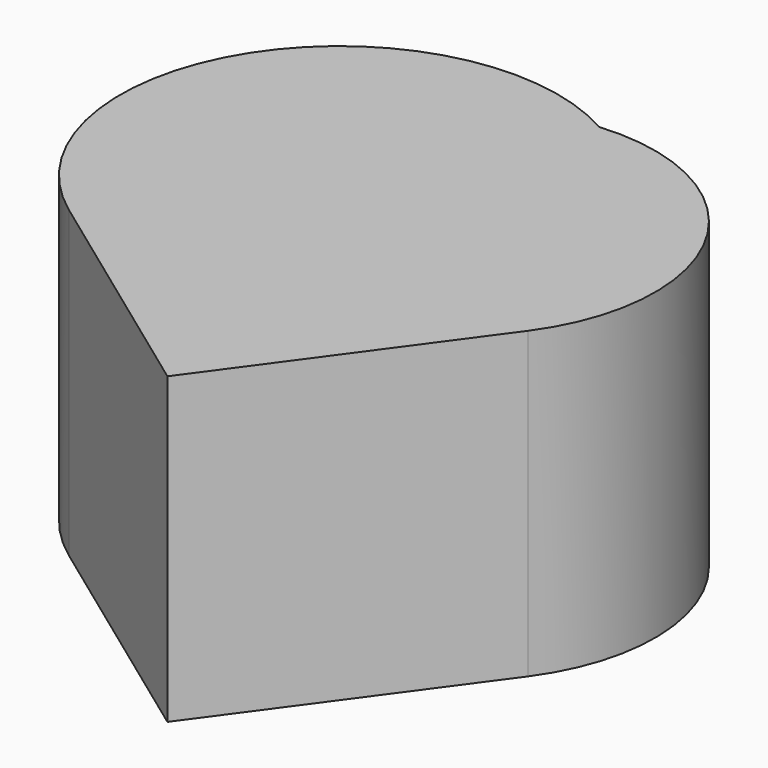
from build123d import *

# Parameters (mm, degrees)
F1_DEPTH = 25


with BuildPart() as f1:
    # F0 (on Top) → F1 (new body)
    with BuildSketch(Plane.XY):
        with BuildLine():
            Line((-19.403657, 14.124379), (0, 0))
            Line((0, 0), (14.124379, 19.403657))
            ThreePointArc((14.124379, 19.403657), (15.09711, 36.428267), (0, 44.356749))
            ThreePointArc((0, 44.356749), (-23.956888, 38.389708), (-19.403657, 14.124379))
        make_face()
    extrude(amount=F1_DEPTH)


solid = f1.part
